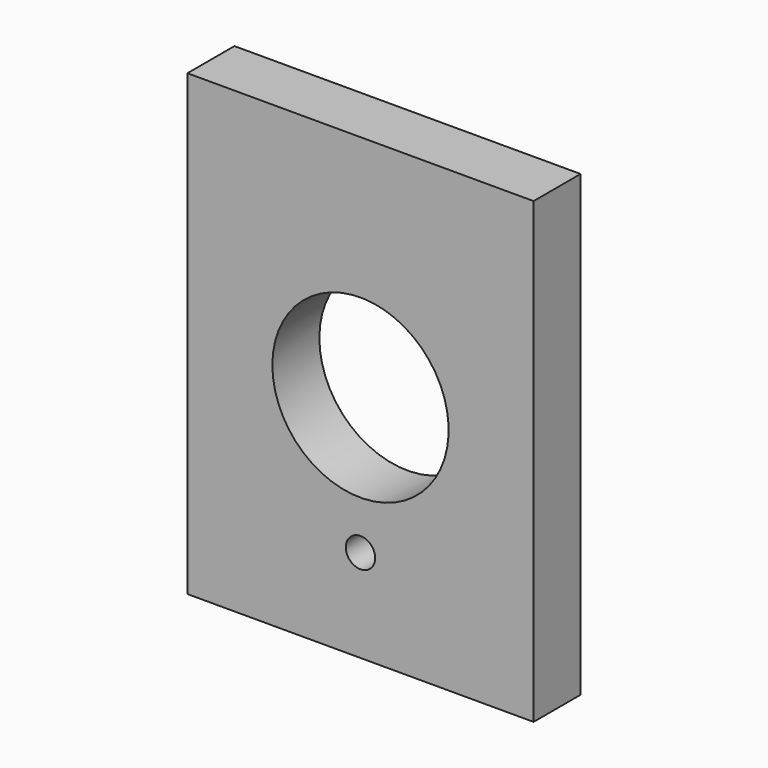
from build123d import *

# Parameters (mm, degrees)
F0_W     = 149.631724
F0_H     = 198.205128
F1_DEPTH = 25.4
F3_D     = 76.2
F5_D     = 12.7


with BuildPart() as f1:
    # F0 (on Front) → F1 (new body)
    with BuildSketch(Plane.XZ):
        Rectangle(F0_W, F0_H)
    extrude(amount=F1_DEPTH)

    # F3 (through all)
    with Locations(Plane.XZ.offset(25.4)):
        with Locations((0, 0)):
            Hole(F3_D / 2)

    # F5 (through all)
    with Locations(Plane.XZ.offset(25.4)):
        with Locations((0, -59.006654)):
            Hole(F5_D / 2)


solid = f1.part
